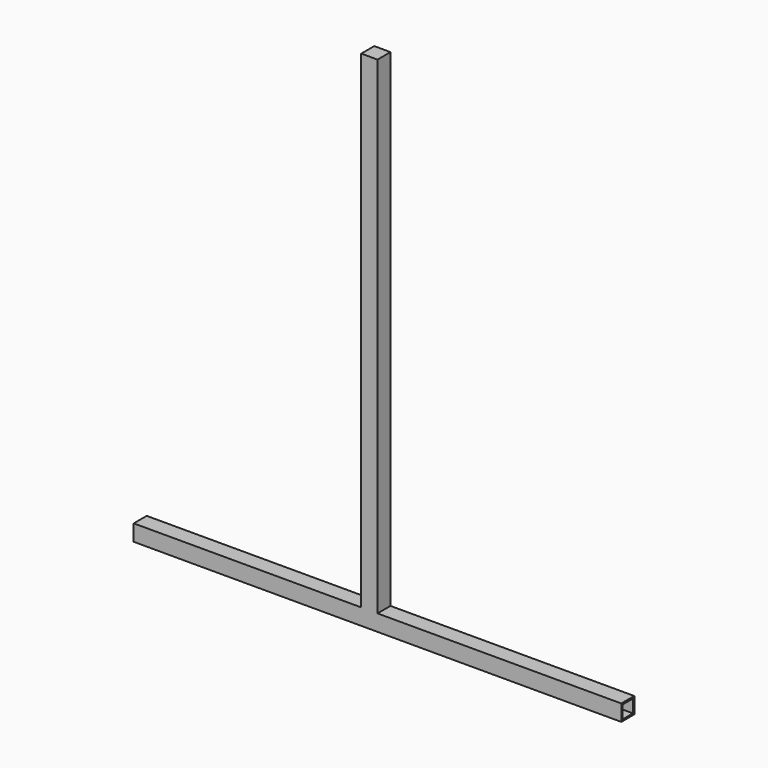
from build123d import *

# Parameters (mm, degrees)
F0_W     = 10
F0_H     = 10
F0_W_2   = 8
F0_H_2   = 8
F1_DEPTH = 300
F2_W     = 10
F2_H     = 10
F3_DEPTH = 300


with BuildPart() as f1:
    # F0 (on Right) → F1 (new body)
    with BuildSketch(Plane.YZ):
        with Locations((32.823025, -4)):
            Rectangle(F0_W, F0_H)
        with Locations((32.823025, -4)):
            Rectangle(F0_W_2, F0_H_2, mode=Mode.SUBTRACT)
    extrude(amount=F1_DEPTH)

    # F2 (on face) → F3 (join)
    with BuildSketch(Plane.XY.offset(1)):
        with Locations((145, 32.823025)):
            Rectangle(F2_W, F2_H)
    extrude(amount=F3_DEPTH)


solid = f1.part
